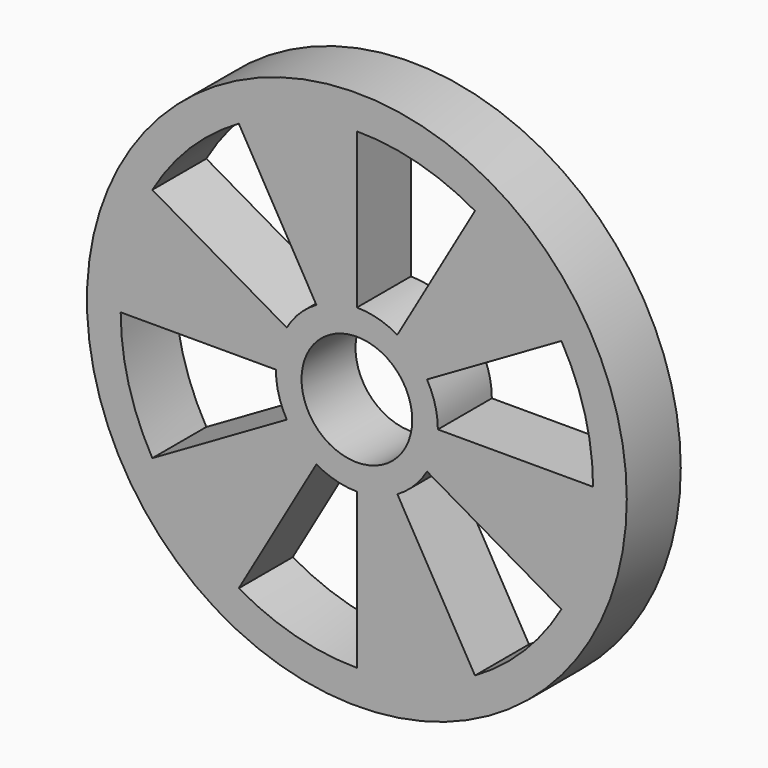
from build123d import *

# Parameters (mm, degrees)
F0_R     = 25.4
F0_R_2   = 5.207
F1_DEPTH = 6.35


with BuildPart() as f1:
    # F0 (on Front) → F1 (new body)
    with BuildSketch(Plane.XZ):
        Circle(F0_R)
        with BuildLine():
            ThreePointArc((19.2474145991, 11.1125), (21.4677014893, 5.7522532774), (22.225, 0))
            ThreePointArc((22.225, 0), (21.4677014893, -5.7522532774), (19.2474145991, -11.1125))
            ThreePointArc((19.2474145991, -11.1125), (15.7154482119, -15.7154482119), (11.1125, -19.2474145991))
            ThreePointArc((11.1125, -19.2474145991), (5.7522532774, -21.4677014893), (0, -22.225))
            ThreePointArc((0, -22.225), (-5.7522532774, -21.4677014893), (-11.1125, -19.2474145991))
            ThreePointArc((-11.1125, -19.2474145991), (-15.7154482119, -15.7154482119), (-19.2474145991, -11.1125))
            ThreePointArc((-19.2474145991, -11.1125), (-21.4677014893, -5.7522532774), (-22.225, 0))
            ThreePointArc((-22.225, 0), (-21.4677014893, 5.7522532774), (-19.2474145991, 11.1125))
            ThreePointArc((-19.2474145991, 11.1125), (-15.7154482119, 15.7154482119), (-11.1125, 19.2474145991))
            ThreePointArc((-11.1125, 19.2474145991), (-5.7522532774, 21.4677014893), (0, 22.225))
            ThreePointArc((0, 22.225), (5.7522532774, 21.4677014893), (11.1125, 19.2474145991))
            ThreePointArc((11.1125, 19.2474145991), (15.7154482119, 15.7154482119), (19.2474145991, 11.1125))
        make_face(mode=Mode.SUBTRACT)
        with BuildLine():
            ThreePointArc((6.5991135768, -3.81), (7.3603547963, -1.9722011237), (7.62, 0))
            ThreePointArc((7.62, 0), (7.3603547963, 1.9722011237), (6.5991135768, 3.81))
            ThreePointArc((6.5991135768, 3.81), (5.3881536726, 5.3881536726), (3.81, 6.5991135768))
            ThreePointArc((3.81, 6.5991135768), (1.9722011237, 7.3603547963), (0, 7.62))
            ThreePointArc((0, 7.62), (-1.9722011237, 7.3603547963), (-3.81, 6.5991135768))
            ThreePointArc((-3.81, 6.5991135768), (-5.3881536726, 5.3881536726), (-6.5991135768, 3.81))
            ThreePointArc((-6.5991135768, 3.81), (-7.3603547963, 1.9722011237), (-7.62, 0))
            ThreePointArc((-7.62, 0), (-7.3603547963, -1.9722011237), (-6.5991135768, -3.81))
            ThreePointArc((-6.5991135768, -3.81), (-5.3881536726, -5.3881536726), (-3.81, -6.5991135768))
            ThreePointArc((-3.81, -6.5991135768), (-1.9722011237, -7.3603547963), (0, -7.62))
            ThreePointArc((0, -7.62), (1.9722011237, -7.3603547963), (3.81, -6.5991135768))
            ThreePointArc((3.81, -6.5991135768), (5.3881536726, -5.3881536726), (6.5991135768, -3.81))
        make_face()
        Circle(F0_R_2, mode=Mode.SUBTRACT)
        with BuildLine():
            Line((6.5991135768, 3.81), (19.2474145991, 11.1125))
            ThreePointArc((19.2474145991, 11.1125), (15.7154482119, 15.7154482119), (11.1125, 19.2474145991))
            Line((11.1125, 19.2474145991), (3.81, 6.5991135768))
            ThreePointArc((3.81, 6.5991135768), (5.3881536726, 5.3881536726), (6.5991135768, 3.81))
        make_face()
        with BuildLine():
            Line((0, 7.62), (0, 22.225))
            ThreePointArc((0, 22.225), (-5.7522532774, 21.4677014893), (-11.1125, 19.2474145991))
            Line((-11.1125, 19.2474145991), (-3.81, 6.5991135768))
            ThreePointArc((-3.81, 6.5991135768), (-1.9722011237, 7.3603547963), (0, 7.62))
        make_face()
        with BuildLine():
            Line((-6.5991135768, 3.81), (-19.2474145991, 11.1125))
            ThreePointArc((-19.2474145991, 11.1125), (-21.4677014893, 5.7522532774), (-22.225, 0))
            Line((-22.225, 0), (-7.62, 0))
            ThreePointArc((-7.62, 0), (-7.3603547963, 1.9722011237), (-6.5991135768, 3.81))
        make_face()
        with BuildLine():
            ThreePointArc((-19.2474145991, -11.1125), (-15.7154482119, -15.7154482119), (-11.1125, -19.2474145991))
            Line((-11.1125, -19.2474145991), (-3.81, -6.5991135768))
            ThreePointArc((-3.81, -6.5991135768), (-5.3881536726, -5.3881536726), (-6.5991135768, -3.81))
            Line((-6.5991135768, -3.81), (-19.2474145991, -11.1125))
        make_face()
        with BuildLine():
            ThreePointArc((0, -22.225), (5.7522532774, -21.4677014893), (11.1125, -19.2474145991))
            Line((11.1125, -19.2474145991), (3.81, -6.5991135768))
            ThreePointArc((3.81, -6.5991135768), (1.9722011237, -7.3603547963), (0, -7.62))
            Line((0, -7.62), (0, -22.225))
        make_face()
        with BuildLine():
            ThreePointArc((19.2474145991, -11.1125), (21.4677014893, -5.7522532774), (22.225, 0))
            Line((22.225, 0), (7.62, 0))
            ThreePointArc((7.62, 0), (7.3603547963, -1.9722011237), (6.5991135768, -3.81))
            Line((6.5991135768, -3.81), (19.2474145991, -11.1125))
        make_face()
    extrude(amount=F1_DEPTH)


solid = f1.part
